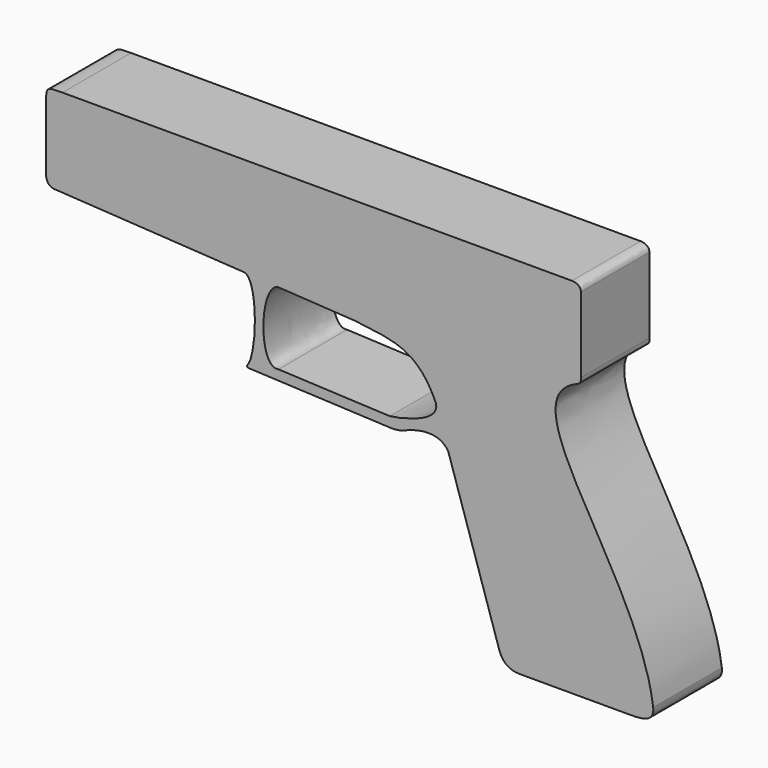
from build123d import *

# Parameters (mm, degrees)
F1_DEPTH = 30


with BuildPart() as f1:
    # F0 (on Front) → F1 (new body)
    with BuildSketch(Plane.XZ):
        with BuildLine():
            Line((97.776912, 40.647307), (-80.380566, 40.647307))
            add(Edge.make_bspline(
                [(-80.380566, 40.647307), (-86.100639, 40.647307), (-86.100639, 40.647307), (-86.100639, 35.409246)],
                knots=[0, 0, 0, 0, 7.756063, 7.756063, 7.756063, 7.756063], degree=3))
            Line((-86.100639, 35.409246), (-86.100639, 23.107393))
            Line((-86.100639, 23.107393), (-86.100639, 13.742078))
            add(Edge.make_bspline(
                [(-86.100639, 13.742078), (-86.100639, 11.200923), (-84.778505, 9.990849), (-82.721377, 9.990849)],
                knots=[0, 0, 0, 0, 5.048874, 5.048874, 5.048874, 5.048874], degree=3))
            Line((-82.721377, 9.990849), (42.946892, 9.990849))
            Line((42.946892, 9.990849), (100.42418, 9.990849))
            add(Edge.make_bspline(
                [(100.42418, 9.990849), (100.899361, 10.444165), (100.899361, 11.027312), (100.899361, 11.835068)],
                knots=[0.810614, 0.810614, 0.810614, 0.810614, 2.726205, 2.726205, 2.726205, 2.726205], degree=3))
            Line((100.899361, 11.835068), (100.899361, 37.817217))
            Line((100.899361, 37.817217), (100.899361, 38.309757))
            add(Edge.make_bspline(
                [(97.776912, 40.647307), (98.709423, 40.647307), (100.746087, 40.282354), (100.899361, 38.309757)],
                knots=[0, 0, 0, 0, 3.908681, 3.908681, 3.908681, 3.908681], degree=3))
        make_face()
        with BuildLine():
            Line((42.946892, 9.990849), (-82.721377, 9.990849))
            Line((-82.721377, 9.990849), (-16.793105, 6.002678))
            Line((-16.793105, 6.002678), (-4.816184, 5.278163))
            Line((-4.816184, 5.278163), (22.046749, 3.653155))
            add(Edge.make_bspline(
                [(22.046749, 3.653155), (34.664334, 2.02508), (43.747929, 2.097842), (50.165818, -12.407815)],
                knots=[0, 0, 0, 0, 32.382662, 32.382662, 32.382662, 32.382662], degree=3))
            Line((50.165818, -12.407815), (42.946892, 9.990849))
        make_face()
        with BuildLine():
            add(Edge.make_bspline(
                [(99.762504, 9.572628), (100.049352, 9.699678), (100.263823, 9.837871), (100.42418, 9.990849)],
                knots=[0.164171, 0.164171, 0.164171, 0.164171, 0.810614, 0.810614, 0.810614, 0.810614], degree=3))
            Line((100.42418, 9.990849), (42.946892, 9.990849))
            Line((42.946892, 9.990849), (50.165818, -12.407815))
            Line((50.165818, -12.407815), (54.594625, -26.149378))
            Line((54.594625, -26.149378), (72.310335, -81.117139))
            add(Edge.make_bspline(
                [(72.310335, -81.117139), (73.538602, -84.92817), (76.174926, -86.352693), (79.634588, -86.352693)],
                knots=[0, 0, 0, 0, 9.003094, 9.003094, 9.003094, 9.003094], degree=3))
            Line((79.634588, -86.352693), (117.39595, -86.352693))
            add(Edge.make_bspline(
                [(126.196032, -81.440722), (126.605711, -86.352693), (122.000841, -86.352693), (117.39595, -86.352693)],
                knots=[0, 0, 0, 0, 10.07814, 10.07814, 10.07814, 10.07814], degree=3))
            add(Edge.make_bspline(
                [(99.529658, 9.477928), (74.162825, -1.021876), (121.11838, -42.338561), (126.196032, -81.440722)],
                knots=[1.614811, 1.614811, 1.614811, 1.614811, 95.760536, 95.760536, 95.760536, 95.760536], degree=3))
            add(Edge.make_bspline(
                [(99.762504, 9.572628), (99.684221, 9.541346), (99.606607, 9.509779), (99.529658, 9.477928)],
                knots=[1.329225, 1.329225, 1.329225, 1.329225, 1.614811, 1.614811, 1.614811, 1.614811], degree=3))
        make_face()
        with BuildLine():
            Line((-4.816184, 5.278163), (-16.793105, 6.002678))
            add(Edge.make_bspline(
                [(-16.793105, 6.002678), (-12.01583, 4.90427), (-12.169383, -16.80378), (-15.487377, -21.927638)],
                knots=[0, 0, 0, 0, 26.254366, 26.254366, 26.254366, 26.254366], degree=3))
            add(Edge.make_bspline(
                [(-15.487377, -21.927638), (-15.561956, -22.042808), (-15.638135, -22.1496), (-15.715892, -22.247591)],
                knots=[26.254366, 26.254366, 26.254366, 26.254366, 26.844495, 26.844495, 26.844495, 26.844495], degree=3))
            add(Edge.make_bspline(
                [(-15.715892, -22.247591), (-15.984637, -22.712274), (-15.798589, -22.976652), (-14.969375, -23.014201)],
                knots=[0.209384, 0.209384, 0.209384, 0.209384, 1.203722, 1.203722, 1.203722, 1.203722], degree=3))
            Line((-14.969375, -23.014201), (33.024817, -25.187522))
            add(Edge.make_bspline(
                [(33.024817, -25.187522), (35.429672, -25.345404), (36.811816, -25.272874), (38.675787, -24.702951)],
                knots=[0, 0, 0, 0, 5.671708, 5.671708, 5.671708, 5.671708], degree=3))
            add(Edge.make_bspline(
                [(38.675787, -24.702951), (42.706189, -22.769051), (51.420407, -20.362724), (54.594625, -26.149378)],
                knots=[1.903191, 1.903191, 1.903191, 1.903191, 17.202754, 17.202754, 17.202754, 17.202754], degree=3))
            Line((54.594625, -26.149378), (50.165818, -12.407815))
            add(Edge.make_bspline(
                [(34.029736, -21.737423), (37.275825, -21.454684), (52.078497, -18.342414), (50.165818, -12.407815)],
                knots=[0, 0, 0, 0, 18.639065, 18.639065, 18.639065, 18.639065], degree=3))
            Line((34.029736, -21.737423), (-4.816184, -19.978363))
            add(Edge.make_bspline(
                [(-4.816184, 5.278163), (-11.526522, 4.791767), (-12.252566, -21.466842), (-4.816184, -19.978363)],
                knots=[0, 0, 0, 0, 25.256526, 25.256526, 25.256526, 25.256526], degree=3))
        make_face()
    extrude(amount=F1_DEPTH)


solid = f1.part
